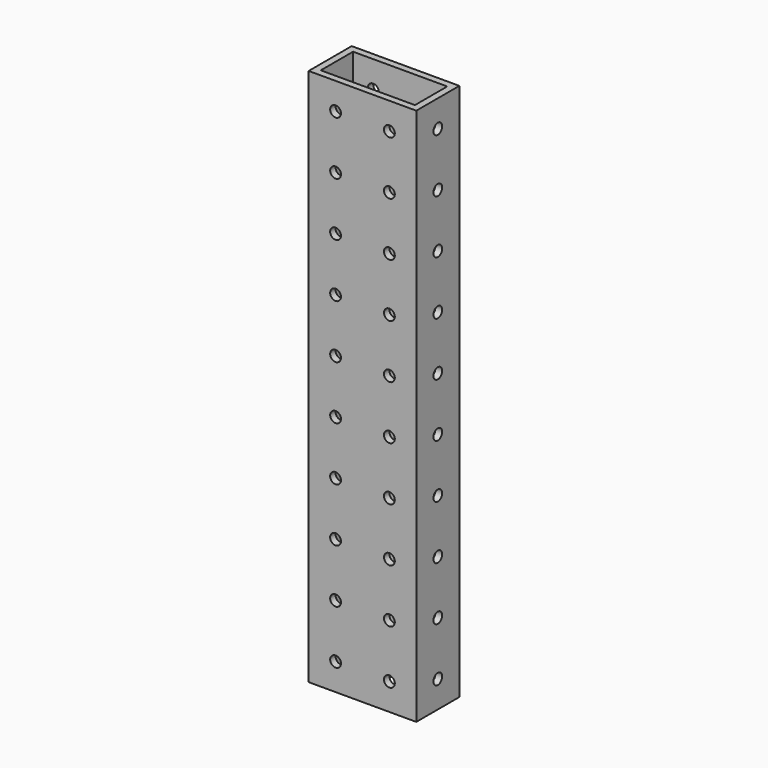
from build123d import *

# Parameters (mm, degrees)
F0_W     = 50.8
F0_H     = 25.4
F1_DEPTH = 254
F2_R     = 2.5527
F3_DEPTH = 50.8
F4_R     = 2.5527
F5_DEPTH = 50.8
F6_W     = 44.45
F6_H     = 19.05
F7_DEPTH = 254


with BuildPart() as f1:
    # F0 (on Top) → F1 (new body)
    with BuildSketch(Plane.XY):
        with Locations((-0.140369, 63.959597)):
            Rectangle(F0_W, F0_H)
    extrude(amount=F1_DEPTH)

    # F2 (on face) → F3 (cut)
    with BuildSketch(Plane.XZ.offset(-51.259597)):
        with Locations((-12.840369, 241.3)):
            Circle(F2_R)
        with Locations((-12.840369, 215.9)):
            Circle(F2_R)
        with Locations((-12.840369, 190.5)):
            Circle(F2_R)
        with Locations((-12.840369, 165.1)):
            Circle(F2_R)
        with Locations((-12.840369, 139.7)):
            Circle(F2_R)
        with Locations((-12.840369, 114.3)):
            Circle(F2_R)
        with Locations((-12.840369, 88.9)):
            Circle(F2_R)
        with Locations((-12.840369, 63.5)):
            Circle(F2_R)
        with Locations((-12.840369, 38.1)):
            Circle(F2_R)
        with Locations((-12.840369, 12.7)):
            Circle(F2_R)
        with Locations((12.559631, 241.3)):
            Circle(F2_R)
        with Locations((12.559631, 215.9)):
            Circle(F2_R)
        with Locations((12.559631, 190.5)):
            Circle(F2_R)
        with Locations((12.559631, 165.1)):
            Circle(F2_R)
        with Locations((12.559631, 139.7)):
            Circle(F2_R)
        with Locations((12.559631, 114.3)):
            Circle(F2_R)
        with Locations((12.559631, 88.9)):
            Circle(F2_R)
        with Locations((12.559631, 63.5)):
            Circle(F2_R)
        with Locations((12.559631, 38.1)):
            Circle(F2_R)
        with Locations((12.559631, 12.7)):
            Circle(F2_R)
    extrude(amount=-F3_DEPTH, mode=Mode.SUBTRACT)

    # F4 (on face) → F5 (cut)
    with BuildSketch(Plane(origin=(-25.540369, 0, 0), x_dir=(0, -1, 0), z_dir=(-1, 0, 0))):
        with Locations((-63.959597, 241.3)):
            Circle(F4_R)
        with Locations((-63.959597, 215.9)):
            Circle(F4_R)
        with Locations((-63.959597, 190.5)):
            Circle(F4_R)
        with Locations((-63.959597, 165.1)):
            Circle(F4_R)
        with Locations((-63.959597, 139.7)):
            Circle(F4_R)
        with Locations((-63.959597, 114.3)):
            Circle(F4_R)
        with Locations((-63.959597, 88.9)):
            Circle(F4_R)
        with Locations((-63.959597, 63.5)):
            Circle(F4_R)
        with Locations((-63.959597, 38.1)):
            Circle(F4_R)
        with Locations((-63.959597, 12.7)):
            Circle(F4_R)
    extrude(amount=-F5_DEPTH, mode=Mode.SUBTRACT)

    # F6 (on face) → F7 (cut)
    with BuildSketch(Plane.XY.offset(254)):
        with Locations((-0.140369, 63.959597)):
            Rectangle(F6_W, F6_H)
    extrude(amount=-F7_DEPTH, mode=Mode.SUBTRACT)


solid = f1.part
